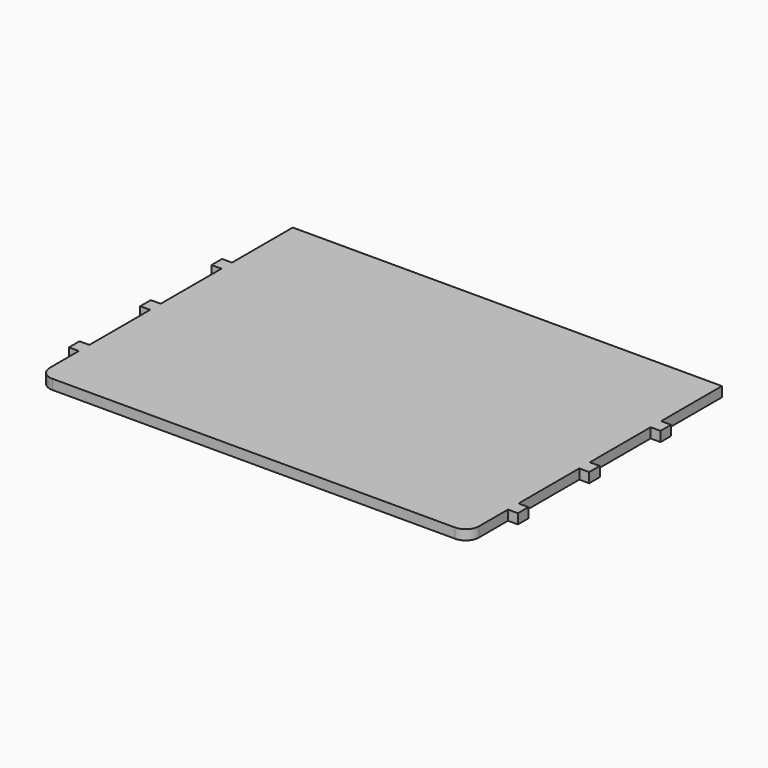
from build123d import *

# Parameters (mm, degrees)
F0_W     = 19.05
F0_H     = 25.4
F1_DEPTH = 19.05


with BuildPart() as f1:
    # F0 (on Top) → F1 (new body)
    with BuildSketch(Plane.XY):
        with BuildLine():
            Line((413.901223, 342.9), (-411.598777, 342.9))
            Line((-411.598777, 342.9), (-411.598777, 196.85))
            Line((-411.598777, 196.85), (-411.598777, 171.45))
            Line((-411.598777, 171.45), (-411.598777, 25.4))
            Line((-411.598777, 25.4), (-411.598777, 0))
            Line((-411.598777, 0), (-411.598777, -146.05))
            Line((-411.598777, -146.05), (-411.598777, -171.45))
            Line((-411.598777, -171.45), (-411.598777, -241.3))
            ThreePointArc((-411.598777, -241.3), (-404.15929, -259.260512), (-386.198777, -266.7))
            Line((-386.198777, -266.7), (388.501223, -266.7))
            ThreePointArc((388.501223, -266.7), (406.461735, -259.260512), (413.901223, -241.3))
            Line((413.901223, -241.3), (413.901223, -171.45))
            Line((413.901223, -171.45), (413.901223, -146.05))
            Line((413.901223, -146.05), (413.901223, 0))
            Line((413.901223, 0), (413.901223, 25.4))
            Line((413.901223, 25.4), (413.901223, 171.45))
            Line((413.901223, 171.45), (413.901223, 196.85))
            Line((413.901223, 196.85), (413.901223, 342.9))
        make_face()
        with Locations((-421.123777, 184.15)):
            Rectangle(F0_W, F0_H)
        with Locations((423.426223, 184.15)):
            Rectangle(F0_W, F0_H)
        with Locations((-421.123777, 12.7)):
            Rectangle(F0_W, F0_H)
        with Locations((423.426223, 12.7)):
            Rectangle(F0_W, F0_H)
        with Locations((-421.123777, -158.75)):
            Rectangle(F0_W, F0_H)
        with Locations((423.426223, -158.75)):
            Rectangle(F0_W, F0_H)
    extrude(amount=F1_DEPTH)


solid = f1.part
